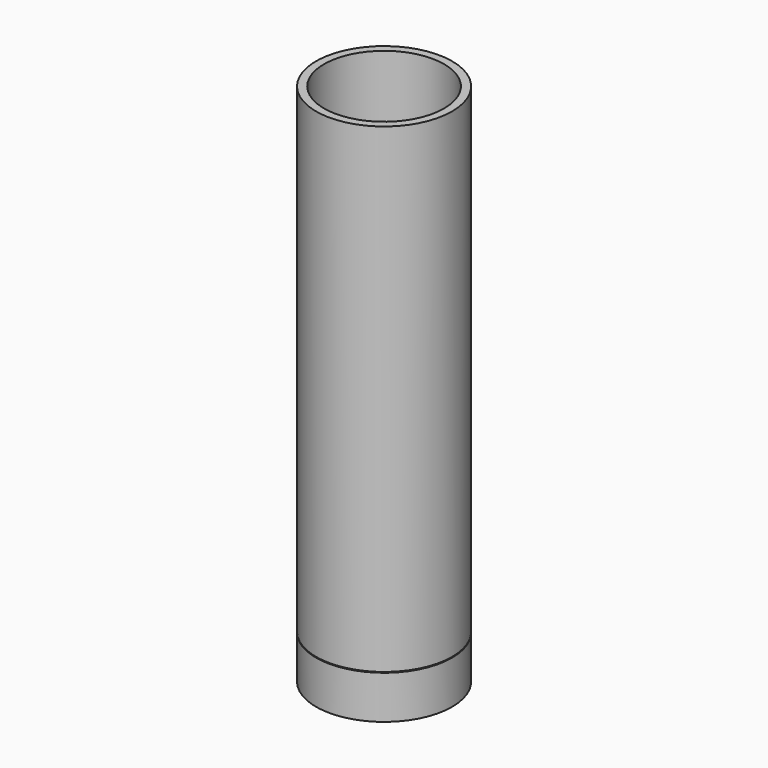
from build123d import *

# Parameters (mm, degrees)
F0_R          = 85
F0_R_2        = 75
F1_DEPTH      = 600
F2_DEPTH      = 50
F3_W          = 175
F3_H          = 1
F4_DEPTH      = 85.9
F4_DEPTH_BACK = 91.3
F5_R          = 85
F6_DEPTH      = 5


with BuildPart() as f1:
    # F0 (on Top) → F1 (new body)
    with BuildSketch(Plane.XY):
        Circle(F0_R)
        Circle(F0_R_2, mode=Mode.SUBTRACT)
    extrude(amount=F1_DEPTH)


with BuildPart() as f2:
    # F2 (new): a face of the model
    f2_faces = [f1.part.faces().sort_by_distance(p)[0] for p in [
        (-82.595836944, 0, 0),
    ]]
    extrude(f2_faces, amount=F2_DEPTH)

    # F3 (on Right) → F4 (cut, two sides)
    with BuildSketch(Plane.YZ) as f4_sk:
        with Locations((0.6284113847, -0.5)):
            Rectangle(F3_W, F3_H)
    extrude(amount=-F4_DEPTH, mode=Mode.SUBTRACT)
    extrude(f4_sk.sketch, amount=F4_DEPTH_BACK, mode=Mode.SUBTRACT)

    # F5 (on face) → F6 (join)
    with BuildSketch(Plane(origin=(0, 0, -50), x_dir=(1, 0, 0), z_dir=(0, 0, -1))):
        Circle(F5_R)
    extrude(amount=F6_DEPTH)


solid = Compound([f1.part, f2.part])
